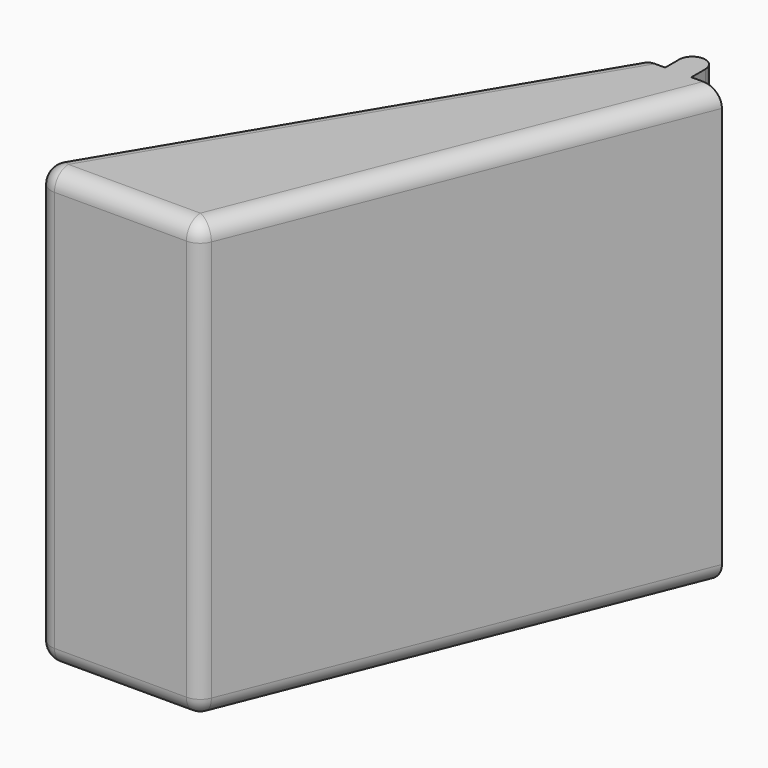
from build123d import *

# Parameters (mm, degrees)
F2_DEPTH = 25
F3_DEPTH = 25
F5_R     = 1


with BuildPart() as f2:
    # F0 (on Top) → F2 (new body)
    with BuildSketch(Plane.XY):
        Polygon((-17, 0), (-22, 0), (-37, -25), (-27, -25), align=None)
    extrude(amount=F2_DEPTH)

    # F1 (on Top) → F3 (join)
    with BuildSketch(Plane.XY):
        with BuildLine():
            Line((-20.25, 1), (-20.25, 0))
            Line((-20.25, 0), (-18.75, 0))
            Line((-18.75, 0), (-18.75, 1))
            ThreePointArc((-18.75, 1), (-19.5, 0.25), (-20.25, 1))
        make_face()
        with BuildLine():
            ThreePointArc((-18.75, 1), (-19.5, 1.75), (-20.25, 1))
            Line((-20.25, 1), (-18.75, 1))
        make_face()
        with BuildLine():
            Line((-18.75, 1), (-20.25, 1))
            ThreePointArc((-20.25, 1), (-19.5, 0.25), (-18.75, 1))
        make_face()
    extrude(amount=F3_DEPTH)

    # F5
    f5_edges = [f2.edges().sort_by_distance(p)[0] for p in [
        (-22, -12.5, 0),
        (-29.5, -12.5, 0),
        (-29.5, -12.5, 25),
        (-22, -12.5, 25),
        (-32, -25, 0),
        (-27, -25, 12.5),
        (-37, -25, 12.5),
        (-32, -25, 25),
    ]]
    fillet(f5_edges, radius=F5_R)


with BuildPart() as f2b:
    # F0 (on Top) → F2, piece 2 (new body)
    with BuildSketch(Plane.XY):
        Polygon((37, -25), (22, 0), (17, 0), (27, -25), align=None)
    extrude(amount=F2_DEPTH)

    # F1 (on Top) → F3, piece 2 (join)
    with BuildSketch(Plane.XY):
        with BuildLine():
            ThreePointArc((18.75, 1), (19.5, 0.25), (20.25, 1))
            ThreePointArc((20.25, 1), (19.5, 1.75), (18.75, 1))
        make_face()
        with BuildLine():
            Line((20.25, 0), (20.25, 1))
            ThreePointArc((20.25, 1), (19.5, 0.25), (18.75, 1))
            Line((18.75, 1), (18.75, 0))
            Line((18.75, 0), (20.25, 0))
        make_face()
    extrude(amount=F3_DEPTH)


solid = f2.part
